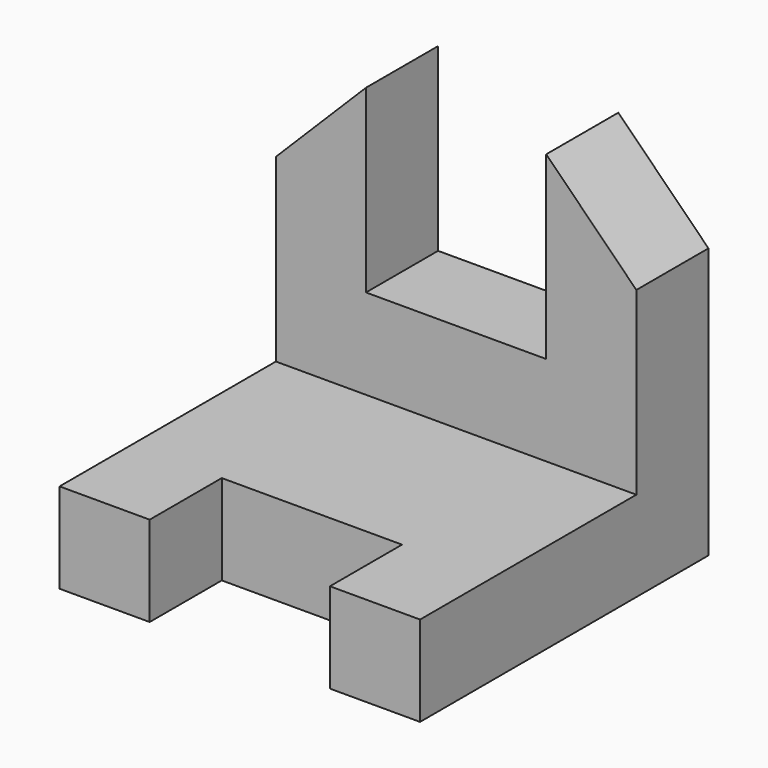
from build123d import *

# Parameters (mm, degrees)
F0_W     = 101.6
F0_H     = 101.6
F1_DEPTH = 101.6
F2_W     = 101.6
F2_H     = 76.2
F3_DEPTH = 76.2
F4_W     = 50.8
F4_H     = 25.4
F5_DEPTH = 25.4
F6_W     = 50.8
F6_H     = 50.8
F7_DEPTH = 25.4
F9_DEPTH = 25.4


with BuildPart() as f1:
    # F0 (on Top) → F1 (new body)
    with BuildSketch(Plane.XY):
        with Locations((50.8, -50.8)):
            Rectangle(F0_W, F0_H)
    extrude(amount=F1_DEPTH)

    # F2 (on face) → F3 (cut)
    with BuildSketch(Plane.XZ.offset(101.6)):
        with Locations((50.8, 63.5)):
            Rectangle(F2_W, F2_H)
    extrude(amount=-F3_DEPTH, mode=Mode.SUBTRACT)

    # F4 (on face) → F5 (cut)
    with BuildSketch(Plane.XZ.offset(101.6)):
        with Locations((50.8, 12.7)):
            Rectangle(F4_W, F4_H)
    extrude(amount=-F5_DEPTH, mode=Mode.SUBTRACT)

    # F6 (on face) → F7 (cut)
    with BuildSketch(Plane.XZ.offset(25.4)):
        with Locations((50.8, 76.2)):
            Rectangle(F6_W, F6_H)
    extrude(amount=-F7_DEPTH, mode=Mode.SUBTRACT)

    # F8 (on face) → F9 (cut)
    with BuildSketch(Plane.XZ.offset(25.4)):
        Polygon((25.4, 101.6), (0, 101.6), (0, 76.2), align=None)
        Polygon((101.6, 76.2), (101.6, 101.6), (76.2, 101.6), align=None)
    extrude(amount=-F9_DEPTH, mode=Mode.SUBTRACT)


solid = f1.part
